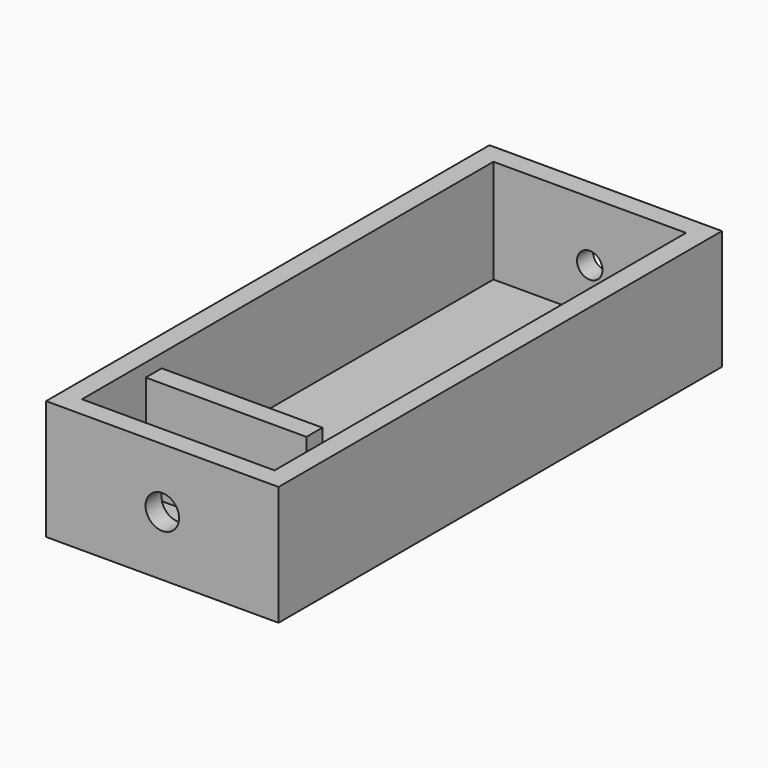
from build123d import *

# Parameters (mm, degrees)
F0_W      = 29.15
F0_H      = 59.5
F0_W_2    = 24.15
F0_H_2    = 54.5
F1_DEPTH  = 2
F2_DEPTH  = 15
F3_W      = 2
F3_H      = 13
F4_DEPTH  = 25
F6_DEPTH  = 15
F5_W      = 24.15
F5_H      = 7.5
F7_DEPTH  = 2
F8_R      = 2.1
F9_DEPTH  = 5
F10_R     = 1.6
F11_DEPTH = 25


with BuildPart() as f1:
    # F0 (on Top) → F1 (new body)
    with BuildSketch(Plane.XY):
        Rectangle(F0_W, F0_H)
        Rectangle(F0_W_2, F0_H_2, mode=Mode.SUBTRACT)
        Rectangle(F0_W_2, F0_H_2)
    extrude(amount=F1_DEPTH)

    # F0 (on Top) → F2 (join)
    with BuildSketch(Plane.XY):
        Rectangle(F0_W, F0_H)
        Rectangle(F0_W_2, F0_H_2, mode=Mode.SUBTRACT)
    extrude(amount=F2_DEPTH)

    # F3 (on face) → F4 (cut)
    with BuildSketch(Plane(origin=(0, -27.25, 0), x_dir=(-1, 0, 0), z_dir=(0, 1, 0))):
        with Locations((11.075, 8.5)):
            Rectangle(F3_W, F3_H)
        with Locations((-11.075, 8.5)):
            Rectangle(F3_W, F3_H)
    extrude(amount=-F4_DEPTH, mode=Mode.SUBTRACT)

    # F5 (on face) → F6 (join)
    with BuildSketch(Plane(origin=(0, 0, 0), x_dir=(1, 0, 0), z_dir=(0, 0, -1))):
        Polygon((-14.575, 39.75), (-14.575, 29.75), (-12.075, 29.75), (-12.075, 37.25), (12.075, 37.25), (12.075, 29.75), (14.575, 29.75), (14.575, 39.75), align=None)
    extrude(amount=-F6_DEPTH)

    # F5 (on face) → F7 (join)
    with BuildSketch(Plane(origin=(0, 0, 0), x_dir=(1, 0, 0), z_dir=(0, 0, -1))):
        with Locations((0, 33.5)):
            Rectangle(F5_W, F5_H)
    extrude(amount=-F7_DEPTH)

    # F8 (on face) → F9 (cut)
    with BuildSketch(Plane.XZ.offset(39.75)):
        with Locations((0, 7.5)):
            Circle(F8_R)
    extrude(amount=-F9_DEPTH, mode=Mode.SUBTRACT)

    # F10 (on face) → F11 (cut)
    with BuildSketch(Plane(origin=(0, 29.75, 0), x_dir=(-1, 0, 0), z_dir=(0, 1, 0))):
        with Locations((0, 7.5)):
            Circle(F10_R)
    extrude(amount=-F11_DEPTH, mode=Mode.SUBTRACT)


solid = f1.part
